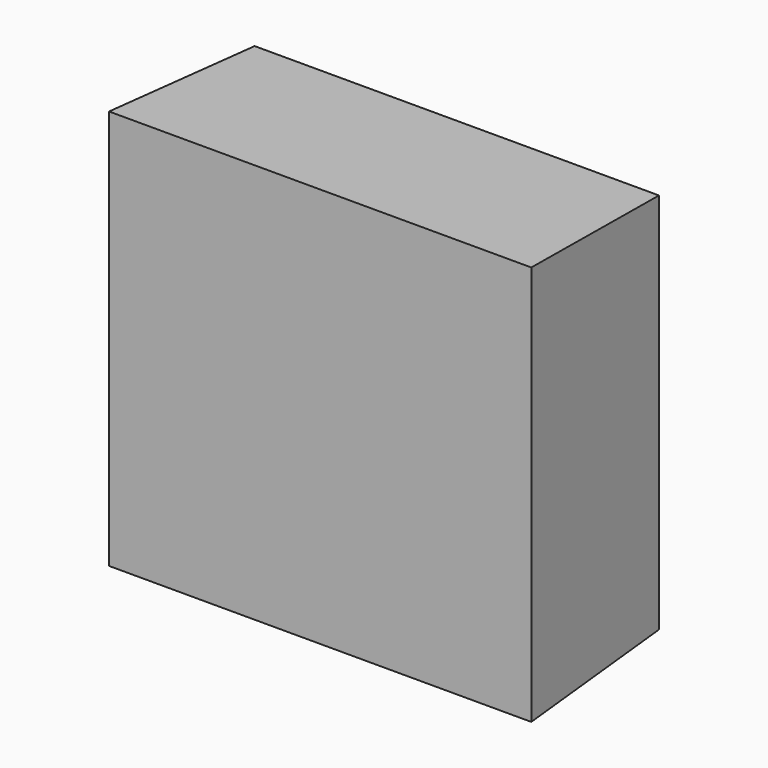
from build123d import *

# Parameters (mm, degrees)
F0_W     = 60.125246644
F0_H     = 56.825697422
F1_DEPTH = 25.4
F1_TAPER = -3


with BuildPart() as f1:
    # F0 (on Front) → F1 (new body)
    with BuildSketch(Plane.XZ):
        with Locations((30.062623322, 28.412848711)):
            Rectangle(F0_W, F0_H)
    extrude(amount=F1_DEPTH, taper=F1_TAPER)


solid = f1.part
